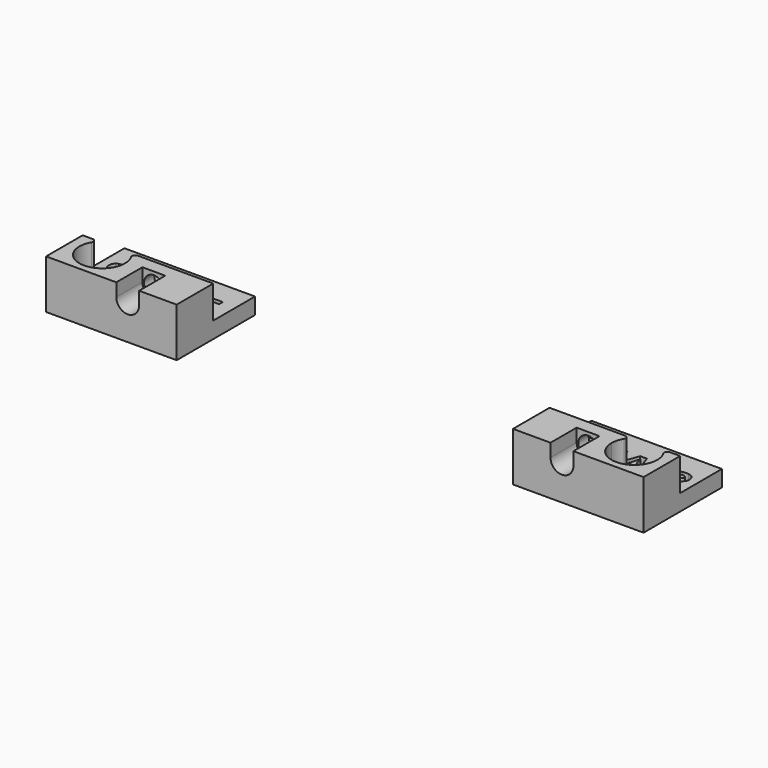
from build123d import *

# Parameters (mm, degrees)
F0_W      = 40
F0_H      = 30
F1_DEPTH  = 1
F3_DEPTH  = 4
F2_W      = 40
F2_H      = 16
F2_H_2    = 14
F4_DEPTH  = 4
F5_DEPTH  = 14
F6_R      = 3
F7_DEPTH  = 14
F9_DEPTH  = 10
F10_R     = 1
F11_DEPTH = 10


with BuildPart() as f1:
    # F0 (on Top) → F1 (new body)
    with BuildSketch(Plane.XY):
        with Locations((-71.5087300752, 25.3250645474)):
            Rectangle(F0_W, F0_H)
    extrude(amount=F1_DEPTH)

    # F2 (on face) → F3 (join)
    with BuildSketch(Plane.XY.offset(1)):
        with BuildLine():
            Line((-86.8692040639, 33.3250645474), (-89.5087300752, 33.3250645474))
            Line((-89.5087300752, 33.3250645474), (-89.5087300752, 25.3250645474))
            Line((-89.5087300752, 25.3250645474), (-87.898740268, 25.3250645474))
            add(Edge.make_bspline(
                [(-87.898740268, 25.3250645474), (-88.4887731258, 25.4446193492), (-88.9983134085, 25.694856214)],
                knots=[0.477766543, 0.477766543, 0.477766543, 1, 1, 1], degree=2))
            Line((-88.9983134085, 25.694856214), (-88.9983134085, 27.257356214))
            add(Edge.make_bspline(
                [(-88.9983134085, 27.257356214), (-88.1962300752, 26.897981214), (-87.6398064641, 26.7521478807)],
                knots=[0, 0, 0, 1, 1, 1], degree=2))
            add(Edge.make_bspline(
                [(-87.6398064641, 26.7521478807), (-87.083382853, 26.6063145474), (-86.6215772974, 26.6063145474)],
                knots=[0, 0, 0, 1, 1, 1], degree=2))
            add(Edge.make_bspline(
                [(-86.6215772974, 26.6063145474), (-86.0694939641, 26.6063145474), (-85.7734870196, 26.8172520474)],
                knots=[0, 0, 0, 1, 1, 1], degree=2))
            add(Edge.make_bspline(
                [(-85.7734870196, 26.8172520474), (-85.4774800752, 27.0281895474), (-85.4774800752, 27.4465923251)],
                knots=[0, 0, 0, 1, 1, 1], degree=2))
            add(Edge.make_bspline(
                [(-85.4774800752, 27.4465923251), (-85.4774800752, 27.679231214), (-85.6076884085, 27.8615228807)],
                knots=[0, 0, 0, 1, 1, 1], degree=2))
            add(Edge.make_bspline(
                [(-85.6076884085, 27.8615228807), (-85.7378967419, 28.0438145474), (-85.9905009085, 28.2113492696)],
                knots=[0, 0, 0, 1, 1, 1], degree=2))
            add(Edge.make_bspline(
                [(-85.9905009085, 28.2113492696), (-86.2431050752, 28.3788839918), (-87.0191467419, 28.7486756585)],
                knots=[0, 0, 0, 1, 1, 1], degree=2))
            add(Edge.make_bspline(
                [(-87.0191467419, 28.7486756585), (-87.7448411863, 29.0906895474), (-88.1085564641, 29.4049256585)],
                knots=[0, 0, 0, 1, 1, 1], degree=2))
            add(Edge.make_bspline(
                [(-88.1085564641, 29.4049256585), (-88.4722717419, 29.7191617696), (-88.6892856308, 30.1375645474)],
                knots=[0, 0, 0, 1, 1, 1], degree=2))
            add(Edge.make_bspline(
                [(-88.6892856308, 30.1375645474), (-88.9062995196, 30.5559673251), (-88.9062995196, 31.1132589918)],
                knots=[0, 0, 0, 1, 1, 1], degree=2))
            add(Edge.make_bspline(
                [(-88.9062995196, 31.1132589918), (-88.9062995196, 32.1670784362), (-88.192757853, 32.7686409362)],
                knots=[0, 0, 0, 1, 1, 1], degree=2))
            add(Edge.make_bspline(
                [(-88.192757853, 32.7686409362), (-87.6746746104, 33.2054191444), (-86.8692040639, 33.3250645474)],
                knots=[0, 0, 0, 0.7260728655, 0.7260728655, 0.7260728655], degree=2))
        make_face()
        with BuildLine():
            Line((-55.020882853, 33.3250645474), (-85.5502913459, 33.3250645474))
            add(Edge.make_bspline(
                [(-85.5502913459, 33.3250645474), (-85.2900169066, 33.2890692595), (-85.0408481308, 33.2243701029)],
                knots=[0.5563486403, 0.5563486403, 0.5563486403, 1, 1, 1], degree=2))
            add(Edge.make_bspline(
                [(-85.0408481308, 33.2243701029), (-84.4792161863, 33.0785367696), (-83.8663689641, 32.8129117696)],
                knots=[0, 0, 0, 1, 1, 1], degree=2))
            Line((-83.8663689641, 32.8129117696), (-84.4080356308, 31.5038839918))
            add(Edge.make_bspline(
                [(-84.4080356308, 31.5038839918), (-85.0434522974, 31.7643006585), (-85.458382853, 31.8675992696)],
                knots=[0, 0, 0, 1, 1, 1], degree=2))
            add(Edge.make_bspline(
                [(-85.458382853, 31.8675992696), (-85.8733134085, 31.9708978807), (-86.2743550752, 31.9708978807)],
                knots=[0, 0, 0, 1, 1, 1], degree=2))
            add(Edge.make_bspline(
                [(-86.2743550752, 31.9708978807), (-86.7517856308, 31.9708978807), (-87.0069939641, 31.7486756585)],
                knots=[0, 0, 0, 1, 1, 1], degree=2))
            add(Edge.make_bspline(
                [(-87.0069939641, 31.7486756585), (-87.2622022974, 31.5264534362), (-87.2622022974, 31.1688145474)],
                knots=[0, 0, 0, 1, 1, 1], degree=2))
            add(Edge.make_bspline(
                [(-87.2622022974, 31.1688145474), (-87.2622022974, 30.9465923251), (-87.1589036863, 30.780793714)],
                knots=[0, 0, 0, 1, 1, 1], degree=2))
            add(Edge.make_bspline(
                [(-87.1589036863, 30.780793714), (-87.0556050752, 30.6149951029), (-86.8307786863, 30.460481214)],
                knots=[0, 0, 0, 1, 1, 1], degree=2))
            add(Edge.make_bspline(
                [(-86.8307786863, 30.460481214), (-86.6059522974, 30.3059673251), (-85.7656745196, 29.9049256585)],
                knots=[0, 0, 0, 1, 1, 1], degree=2))
            add(Edge.make_bspline(
                [(-85.7656745196, 29.9049256585), (-84.6528272974, 29.3719395474), (-84.2405009085, 28.8380853807)],
                knots=[0, 0, 0, 1, 1, 1], degree=2))
            add(Edge.make_bspline(
                [(-84.2405009085, 28.8380853807), (-83.8281745196, 28.304231214), (-83.8281745196, 27.5281895474)],
                knots=[0, 0, 0, 1, 1, 1], degree=2))
            add(Edge.make_bspline(
                [(-83.8281745196, 27.5281895474), (-83.8281745196, 26.4535367696), (-84.6016120196, 25.8346131585)],
                knots=[0, 0, 0, 1, 1, 1], degree=2))
            add(Edge.make_bspline(
                [(-84.6016120196, 25.8346131585), (-85.049913015, 25.4758717335), (-85.7008988575, 25.3250645474)],
                knots=[0, 0, 0, 0.5796214889, 0.5796214889, 0.5796214889], degree=2))
            Line((-85.7008988575, 25.3250645474), (-81.0122022974, 25.3250645474))
            Line((-81.0122022974, 25.3250645474), (-81.0122022974, 31.8580506585))
            Line((-81.0122022974, 31.8580506585), (-83.1667161863, 31.8580506585))
            Line((-83.1667161863, 31.8580506585), (-83.1667161863, 33.257356214))
            Line((-83.1667161863, 33.257356214), (-77.177132853, 33.257356214))
            Line((-77.177132853, 33.257356214), (-77.177132853, 31.8580506585))
            Line((-77.177132853, 31.8580506585), (-79.3299106308, 31.8580506585))
            Line((-79.3299106308, 31.8580506585), (-79.3299106308, 25.3250645474))
            Line((-79.3299106308, 25.3250645474), (-76.9549106308, 25.3250645474))
            Line((-76.9549106308, 25.3250645474), (-74.1545634085, 33.2903423251))
            Line((-74.1545634085, 33.2903423251), (-72.099007853, 33.2903423251))
            Line((-72.099007853, 33.2903423251), (-69.2882439641, 25.3250645474))
            Line((-69.2882439641, 25.3250645474), (-68.2899800752, 25.3250645474))
            Line((-68.2899800752, 25.3250645474), (-68.2899800752, 33.257356214))
            Line((-68.2899800752, 33.257356214), (-65.9792161863, 33.257356214))
            add(Edge.make_bspline(
                [(-65.9792161863, 33.257356214), (-64.3611606308, 33.257356214), (-63.5859870196, 32.6688145474)],
                knots=[0, 0, 0, 1, 1, 1], degree=2))
            add(Edge.make_bspline(
                [(-63.5859870196, 32.6688145474), (-62.8108134085, 32.0802728807), (-62.8108134085, 30.8806201029)],
                knots=[0, 0, 0, 1, 1, 1], degree=2))
            add(Edge.make_bspline(
                [(-62.8108134085, 30.8806201029), (-62.8108134085, 30.1809673251), (-63.1953620196, 29.6358284362)],
                knots=[0, 0, 0, 1, 1, 1], degree=2))
            add(Edge.make_bspline(
                [(-63.1953620196, 29.6358284362), (-63.5799106308, 29.0906895474), (-64.286507853, 28.7816617696)],
                knots=[0, 0, 0, 1, 1, 1], degree=2))
            add(Edge.make_bspline(
                [(-64.286507853, 28.7816617696), (-62.4948411863, 26.1063145474), (-61.9531745196, 25.3250645474)],
                knots=[0, 0, 0, 1, 1, 1], degree=2))
            Line((-61.9531745196, 25.3250645474), (-59.5764384085, 25.3250645474))
            Line((-59.5764384085, 25.3250645474), (-59.5764384085, 31.8580506585))
            Line((-59.5764384085, 31.8580506585), (-61.7309522974, 31.8580506585))
            Line((-61.7309522974, 31.8580506585), (-61.7309522974, 33.257356214))
            Line((-61.7309522974, 33.257356214), (-55.7413689641, 33.257356214))
            Line((-55.7413689641, 33.257356214), (-55.7413689641, 31.8580506585))
            Line((-55.7413689641, 31.8580506585), (-57.8941467419, 31.8580506585))
            Line((-57.8941467419, 31.8580506585), (-57.8941467419, 25.3250645474))
            Line((-57.8941467419, 25.3250645474), (-55.020882853, 25.3250645474))
            Line((-55.020882853, 25.3250645474), (-55.020882853, 33.3250645474))
        make_face()
        with BuildLine():
            Line((-74.1441467419, 28.6236756585), (-72.0781745196, 28.6236756585))
            add(Edge.make_bspline(
                [(-72.0781745196, 28.6236756585), (-72.8750495196, 31.1896478807), (-72.9757439641, 31.5264534362)],
                knots=[0, 0, 0, 1, 1, 1], degree=2))
            add(Edge.make_bspline(
                [(-72.9757439641, 31.5264534362), (-73.0764384085, 31.8632589918), (-73.1198411863, 32.0577034362)],
                knots=[0, 0, 0, 1, 1, 1], degree=2))
            add(Edge.make_bspline(
                [(-73.1198411863, 32.0577034362), (-73.2986606308, 31.3632589918), (-74.1441467419, 28.6236756585)],
                knots=[0, 0, 0, 1, 1, 1], degree=2))
        make_face()
        Polygon((-74.567757853, 27.2139534362), (-75.1424106308, 25.3250645474), (-71.1007439641, 25.3250645474), (-71.6753967419, 27.2139534362), align=None)
        with BuildLine():
            Line((-66.6076884085, 31.8788839918), (-66.6076884085, 29.7365228807))
            Line((-66.6076884085, 29.7365228807), (-66.0660217419, 29.7365228807))
            add(Edge.make_bspline(
                [(-66.0660217419, 29.7365228807), (-65.2674106308, 29.7365228807), (-64.888070353, 30.0021478807)],
                knots=[0, 0, 0, 1, 1, 1], degree=2))
            add(Edge.make_bspline(
                [(-64.888070353, 30.0021478807), (-64.5087300752, 30.2677728807), (-64.5087300752, 30.8372173251)],
                knots=[0, 0, 0, 1, 1, 1], degree=2))
            add(Edge.make_bspline(
                [(-64.5087300752, 30.8372173251), (-64.5087300752, 31.4014534362), (-64.8967509085, 31.640168714)],
                knots=[0, 0, 0, 1, 1, 1], degree=2))
            add(Edge.make_bspline(
                [(-64.8967509085, 31.640168714), (-65.2847717419, 31.8788839918), (-66.0972717419, 31.8788839918)],
                knots=[0, 0, 0, 1, 1, 1], degree=2))
            Line((-66.0972717419, 31.8788839918), (-66.6076884085, 31.8788839918))
        make_face()
        Polygon((-66.6076884085, 25.3250645474), (-63.8194939641, 25.3250645474), (-65.7135911863, 28.3684673251), (-66.6076884085, 28.3684673251), align=None)
    extrude(amount=F3_DEPTH)

    # F2 (on face) → F4 (join)
    with BuildSketch(Plane.XY.offset(1)):
        with Locations((-71.5087300752, 32.3250645474)):
            Rectangle(F2_W, F2_H)
        with BuildLine():
            Line((-89.5087300752, 25.3250645474), (-89.5087300752, 33.3250645474))
            Line((-89.5087300752, 33.3250645474), (-86.8692040639, 33.3250645474))
            add(Edge.make_bspline(
                [(-86.8692040639, 33.3250645474), (-86.5653223886, 33.3702034362), (-86.2205356308, 33.3702034362)],
                knots=[0.7260728655, 0.7260728655, 0.7260728655, 1, 1, 1], degree=2))
            add(Edge.make_bspline(
                [(-86.2205356308, 33.3702034362), (-85.8766812628, 33.3702034362), (-85.5502913459, 33.3250645474)],
                knots=[0, 0, 0, 0.5563486403, 0.5563486403, 0.5563486403], degree=2))
            Line((-85.5502913459, 33.3250645474), (-55.020882853, 33.3250645474))
            Line((-55.020882853, 33.3250645474), (-55.020882853, 25.3250645474))
            Line((-55.020882853, 25.3250645474), (-57.8941467419, 25.3250645474))
            Line((-57.8941467419, 25.3250645474), (-59.5764384085, 25.3250645474))
            Line((-59.5764384085, 25.3250645474), (-61.9531745196, 25.3250645474))
            Line((-61.9531745196, 25.3250645474), (-63.8194939641, 25.3250645474))
            Line((-63.8194939641, 25.3250645474), (-66.6076884085, 25.3250645474))
            Line((-66.6076884085, 25.3250645474), (-68.2899800752, 25.3250645474))
            Line((-68.2899800752, 25.3250645474), (-69.2882439641, 25.3250645474))
            Line((-69.2882439641, 25.3250645474), (-71.1007439641, 25.3250645474))
            Line((-71.1007439641, 25.3250645474), (-75.1424106308, 25.3250645474))
            Line((-75.1424106308, 25.3250645474), (-76.9549106308, 25.3250645474))
            Line((-76.9549106308, 25.3250645474), (-79.3299106308, 25.3250645474))
            Line((-79.3299106308, 25.3250645474), (-81.0122022974, 25.3250645474))
            Line((-81.0122022974, 25.3250645474), (-85.7008988575, 25.3250645474))
            add(Edge.make_bspline(
                [(-85.7008988575, 25.3250645474), (-86.1730353542, 25.2156895474), (-86.7517856308, 25.2156895474)],
                knots=[0.5796214889, 0.5796214889, 0.5796214889, 1, 1, 1], degree=2))
            add(Edge.make_bspline(
                [(-86.7517856308, 25.2156895474), (-87.3589472791, 25.2156895474), (-87.898740268, 25.3250645474)],
                knots=[0, 0, 0, 0.477766543, 0.477766543, 0.477766543], degree=2))
            Line((-87.898740268, 25.3250645474), (-89.5087300752, 25.3250645474))
        make_face(mode=Mode.SUBTRACT)
        with Locations((-71.5087300752, 17.3250645474)):
            Rectangle(F2_W, F2_H_2)
    extrude(amount=F4_DEPTH)

    # F2 (on face) → F5 (join)
    with BuildSketch(Plane.XY.offset(1)):
        with Locations((-71.5087300752, 17.3250645474)):
            Rectangle(F2_W, F2_H_2)
    extrude(amount=F5_DEPTH)

    # F6 (on face) → F7 (cut)
    with BuildSketch(Plane.XZ.offset(-10.3250645474)):
        with Locations((-66.5087300752, 11)):
            Circle(F6_R)
    extrude(amount=-F7_DEPTH, mode=Mode.SUBTRACT)

    # F8 (on face) → F9 (cut)
    with BuildSketch(Plane.XY.offset(15)):
        with BuildLine():
            ThreePointArc((-86.4077095608, 24.3250645474), (-84.2204770768, 12.871660159), (-74.5087300752, 19.3250645474))
            ThreePointArc((-74.5087300752, 19.3250645474), (-75.0553256869, 22.0368115489), (-76.6097505896, 24.3250645474))
            Line((-76.6097505896, 24.3250645474), (-86.4077095608, 24.3250645474))
        make_face()
    extrude(amount=-F9_DEPTH, mode=Mode.SUBTRACT)

    # F10
    f10_edges = [f1.edges().sort_by_distance(p)[0] for p in [
        (-76.609751, 24.325065, 10),
        (-86.40771, 24.325065, 10),
    ]]
    fillet(f10_edges, radius=F10_R)

    # F6 (on face) → F11 (cut)
    with BuildSketch(Plane.XZ.offset(-10.3250645474)):
        with BuildLine():
            Line((-70.0087300752, 15), (-70.0087300752, 11))
            ThreePointArc((-70.0087300752, 11), (-66.5087300752, 7.5), (-63.0087300752, 11))
            Line((-63.0087300752, 11), (-63.0087300752, 15))
            Line((-63.0087300752, 15), (-70.0087300752, 15))
        make_face()
        with Locations((-66.5087300752, 11)):
            Circle(F6_R, mode=Mode.SUBTRACT)
    extrude(amount=-F11_DEPTH, mode=Mode.SUBTRACT)


with BuildPart() as f12_1:
    # F12: instance of F1
    add(f1.part.mirror(Plane.YZ))


solid = Compound([f1.part, f12_1.part])
